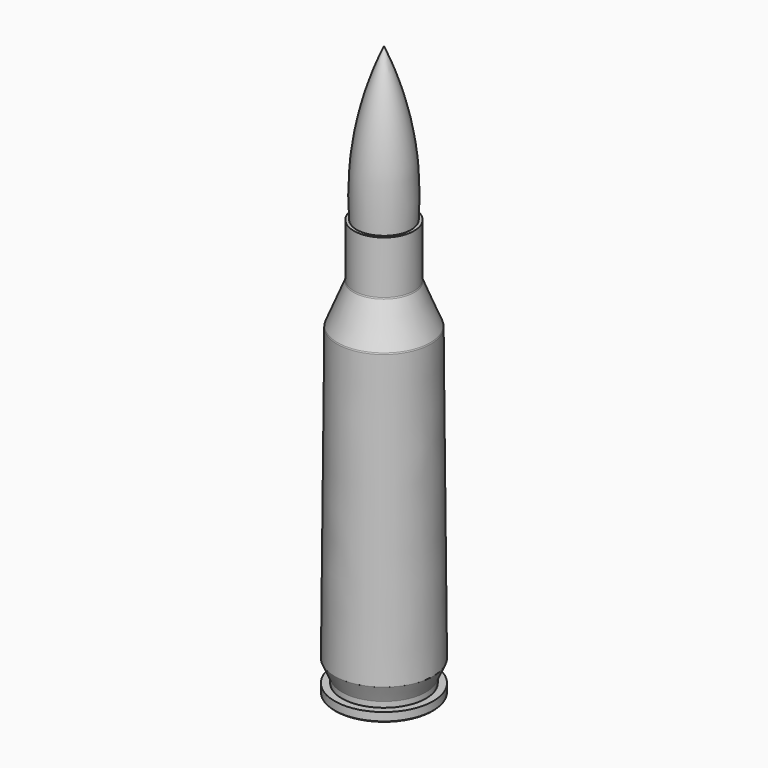
from build123d import *

# Parameters (mm, degrees)
F2_R = 1


with BuildPart() as f1:
    # F0 (on Front) → F1 (revolve)
    with BuildSketch(Plane.XZ):
        with BuildLine():
            Line((-13.475, 0.25), (-13.225, 0))
            Line((-13.225, 0), (-6.225, 0))
            Line((-6.225, 0), (-6.225, 1.019842))
            Line((-6.225, 1.019842), (-5, 1.019842))
            Line((-5, 1.019842), (-5, 0))
            Line((-5, 0), (0, 0))
            Line((0, 0), (0, 103.224479))
            Line((0, 103.224479), (0, 114))
            Line((0, 114), (0, 155.8))
            ThreePointArc((0, 155.8), (-6.301306, 135.359448), (-7.44, 114))
            Line((-7.44, 114), (-8.25, 114))
            Line((-8.25, 114), (-8.25, 99.37))
            Line((-8.25, 99.37), (-12.75, 88.37))
            Line((-12.75, 88.37), (-13.475, 8.5))
            Line((-13.475, 8.5), (-11.5, 4))
            Line((-11.5, 4), (-11.5, 2.5))
            Line((-11.5, 2.5), (-13.475, 2.5))
            Line((-13.475, 2.5), (-13.475, 0.25))
        make_face()
    revolve(axis=Axis((0, 0, 134.9), (0, 0, 1)))

    # F2
    f2_edges = [f1.edges().sort_by_distance(p)[0] for p in [
        (8.25, 0, 99.37),
        (12.75, 0, 88.37),
    ]]
    fillet(f2_edges, radius=F2_R)


solid = f1.part
